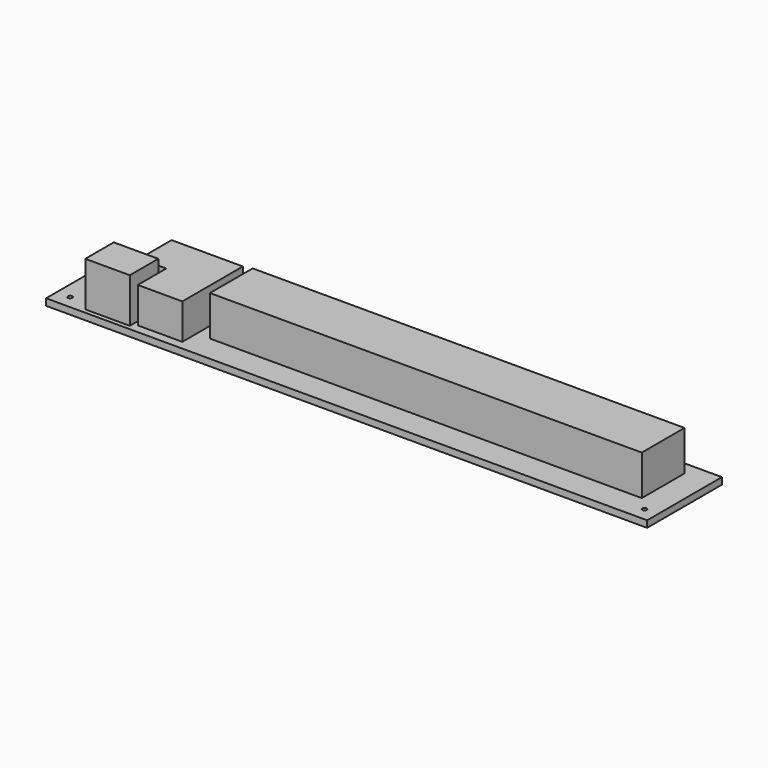
from build123d import *

# Parameters (mm, degrees)
SKETCH_W     = 135
SKETCH_H     = 21
SKETCH_R     = 0.5
PAD_DEPTH    = 1.5
SKETCH001_W  = 97
SKETCH001_H  = 12
PAD001_DEPTH = 9
SKETCH002_W  = 10
SKETCH002_H  = 8
PAD002_DEPTH = 10
PAD003_DEPTH = 8


with BuildPart() as part:
    # Sketch → Pad (new body)
    with BuildSketch(Plane.XY):
        with Locations((0, 10.5)):
            Rectangle(SKETCH_W, SKETCH_H)
        with Locations((-64.5, 3)):
            Circle(SKETCH_R, mode=Mode.SUBTRACT)
        with Locations((64.5, 3)):
            Circle(SKETCH_R, mode=Mode.SUBTRACT)
    extrude(amount=PAD_DEPTH)

    # Sketch001 (on Face8 of Pad) → Pad001 (join)
    with BuildSketch(Plane.XY.offset(1.5)):
        with Locations((13, 12)):
            Rectangle(SKETCH001_W, SKETCH001_H)
    extrude(amount=PAD001_DEPTH)

    # Sketch002 (on Face5 of Pad001) → Pad002 (join)
    with BuildSketch(Plane.XY.offset(1.5)):
        with Locations((-54.5, 5)):
            Rectangle(SKETCH002_W, SKETCH002_H)
    extrude(amount=PAD002_DEPTH)

    # Sketch003 (on Face5 of Pad002) → Pad003 (join)
    with BuildSketch(Plane.XY.offset(1.5)):
        Polygon((-54.5, 10), (-48.5, 10), (-48.5, 2), (-38.5, 2), (-38.5, 19), (-54.5, 19), align=None)
    extrude(amount=PAD003_DEPTH)


solid = part.part
